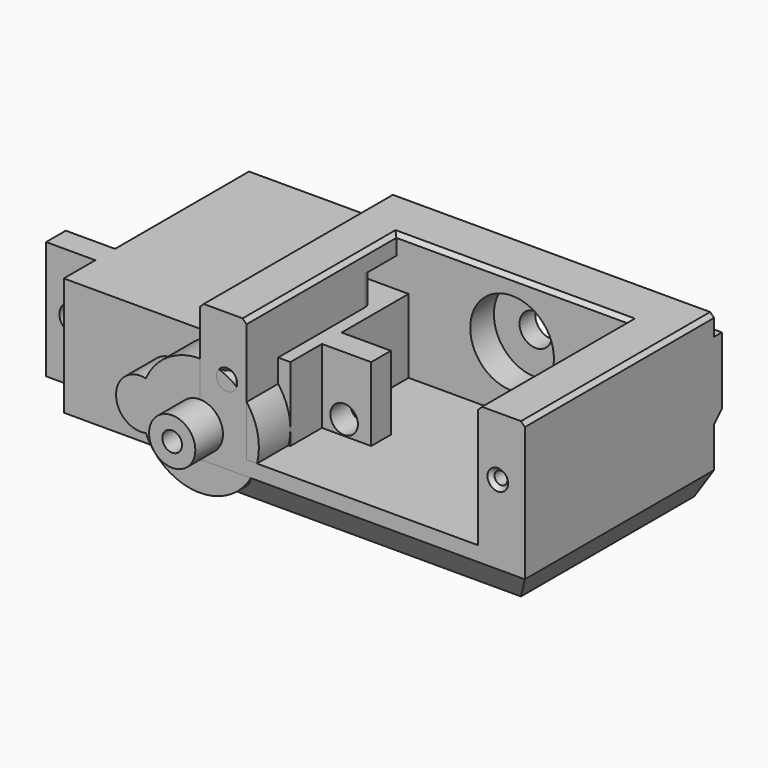
from build123d import *

# Parameters (mm, degrees)
PAD_DEPTH        = 12
PAD001_DEPTH     = 4
SKETCH002_R      = 2.35
SKETCH002_R_2    = 1
PAD002_DEPTH     = 3.5
SKETCH003_R      = 1.4
POCKET_DEPTH     = 19.501
SKETCH004_W      = 33
SKETCH004_H      = 24
PAD003_DEPTH     = 17
SKETCH005_W      = 23.5
SKETCH005_H      = 19
POCKET001_DEPTH  = 12.5
SKETCH006_W      = 3
SKETCH006_H      = 8.5
POCKET002_DEPTH  = 5
SKETCH007_R      = 0.65
POCKET003_DEPTH  = 10
SKETCH008_W      = 11.5
SKETCH008_H      = 7.8
PAD004_DEPTH     = 1
CHAMFER_SIZE     = 0.99
SKETCH009_R      = 1.65
POCKET004_DEPTH  = 5
SKETCH010_R      = 4.25
POCKET005_DEPTH  = 3
CHAMFER001_SIZE2 = 3
CHAMFER001_SIZE  = 2
CHAMFER002_SIZE2 = 2
CHAMFER002_SIZE  = 3
CHAMFER003_SIZE2 = 3
CHAMFER003_SIZE  = 2
CHAMFER004_SIZE  = 0.4
CHAMFER005_SIZE  = 0.4
FILLET_R         = 1


with BuildPart() as obj1:
    # Sketch → Pad (new body)
    with BuildSketch(Plane.XY):
        Polygon((-22, 10.5), (-17, 10.5), (-17, 27.5), (6, 27.5), (6, 10.5), (11, 10.5), (11, 8), (6, 8), (6, 4), (-17, 4), (-17, 8), (-22, 8), align=None)
    extrude(amount=PAD_DEPTH)

    # Sketch001 (on Face9 of Pad) → Pad001 (join)
    with BuildSketch(Plane.XZ.offset(-4)):
        with BuildLine():
            ThreePointArc((-5.479167, 3.554855), (6, 6), (-5.479167, 8.445145))
            ThreePointArc((-5.479167, 8.445145), (-8.5, 6), (-5.479167, 3.554855))
        make_face()
    extrude(amount=PAD001_DEPTH)

    # Sketch002 (on Face19 of Pad001) → Pad002 (join)
    with BuildSketch(Plane.XZ):
        with Locations((0, 6)):
            Circle(SKETCH002_R)
        with Locations((0, 6)):
            Circle(SKETCH002_R_2, mode=Mode.SUBTRACT)
    extrude(amount=PAD002_DEPTH)

    # Sketch003 (on Face6 of Pad002) → Pocket (cut, through all)
    with BuildSketch(Plane.XZ.offset(-8)):
        with Locations((-19.25, 6)):
            Circle(SKETCH003_R)
        with Locations((8.25, 6)):
            Circle(SKETCH003_R)
    extrude(amount=-POCKET_DEPTH, mode=Mode.SUBTRACT)


with BuildPart() as body001:
    # Sketch004 → Pad003 (new body)
    with BuildSketch(Plane.XY):
        with Locations((16.5, 12)):
            Rectangle(SKETCH004_W, SKETCH004_H)
    extrude(amount=PAD003_DEPTH)

    # Sketch005 (on Face6 of Pad003) → Pocket001 (cut)
    with BuildSketch(Plane.XY.offset(17)):
        with Locations((16.5, 9.5)):
            Rectangle(SKETCH005_W, SKETCH005_H)
    extrude(amount=-POCKET001_DEPTH, mode=Mode.SUBTRACT)

    # Sketch006 (on Face8 of Pocket001) → Pocket002 (cut)
    with BuildSketch(Plane(origin=(0, 0, 0), x_dir=(0, -1, 0), z_dir=(-1, 0, 0))):
        with Locations((-17.5, 10.75)):
            Rectangle(SKETCH006_W, SKETCH006_H)
    extrude(amount=-POCKET002_DEPTH, mode=Mode.SUBTRACT)

    # Sketch007 (on Face1 of Pocket002) → Pocket003 (cut)
    with BuildSketch(Plane.XZ):
        with Locations((2.75, 11)):
            Circle(SKETCH007_R)
        with Locations((30.25, 11)):
            Circle(SKETCH007_R)
    extrude(amount=-POCKET003_DEPTH, mode=Mode.SUBTRACT)

    # Sketch008 (on Face11 of Pocket003) → Pad004 (join)
    with BuildSketch(Plane(origin=(0, 24, 0), x_dir=(-1, 0, 0), z_dir=(0, 1, 0))):
        with Locations((-27.25, 11)):
            Rectangle(SKETCH008_W, SKETCH008_H)
        with Locations((-5.75, 11)):
            Rectangle(SKETCH008_W, SKETCH008_H)
    extrude(amount=PAD004_DEPTH)

    # Chamfer
    chamfer_edges = [body001.edges().sort_by_distance(p)[0] for p in [
        (27.25, 25, 7.1),
        (5.75, 25, 7.1),
    ]]
    chamfer(chamfer_edges, length=CHAMFER_SIZE)

    # Sketch009 (on Face7 of Chamfer) → Pocket004 (cut)
    with BuildSketch(Plane(origin=(0, 24, 0), x_dir=(-1, 0, 0), z_dir=(0, 1, 0))):
        with Locations((-16.5, 11)):
            Circle(SKETCH009_R)
    extrude(amount=-POCKET004_DEPTH, mode=Mode.SUBTRACT)

    # Sketch010 (on Face22 of Pocket004) → Pocket005 (cut)
    with BuildSketch(Plane.XZ.offset(-19)):
        with Locations((16.5, 11)):
            Circle(SKETCH010_R)
    extrude(amount=-POCKET005_DEPTH, mode=Mode.SUBTRACT)

    # Chamfer001
    chamfer001_edges = [body001.edges().sort_by_distance(p)[0] for p in [
        (16.5, 0, 0),
    ]]
    chamfer001_side = body001.faces().sort_by_distance((16.5, 12, 0))[0]
    chamfer(chamfer001_edges, length=CHAMFER001_SIZE, length2=CHAMFER001_SIZE2, reference=chamfer001_side)

    # Chamfer002
    chamfer002_edges = [body001.edges().sort_by_distance(p)[0] for p in [
        (0, 13, 0),
    ]]
    chamfer002_side = body001.faces().sort_by_distance((0, 11.720026, 8.408103))[0]
    chamfer(chamfer002_edges, length=CHAMFER002_SIZE, length2=CHAMFER002_SIZE2, reference=chamfer002_side)

    # Chamfer003
    chamfer003_edges = [body001.edges().sort_by_distance(p)[0] for p in [
        (33, 13, 0),
    ]]
    chamfer003_side = body001.faces().sort_by_distance((17.5, 13, 0))[0]
    chamfer(chamfer003_edges, length=CHAMFER003_SIZE, length2=CHAMFER003_SIZE2, reference=chamfer003_side)

    # Chamfer004
    chamfer004_edges = [body001.edges().sort_by_distance(p)[0] for p in [
        (0, 12, 17),
        (4.75, 9.5, 17),
        (16.5, 19, 17),
        (28.25, 9.5, 17),
        (33, 12, 17),
    ]]
    chamfer(chamfer004_edges, length=CHAMFER004_SIZE)

    # Chamfer005
    chamfer005_edges = [body001.edges().sort_by_distance(p)[0] for p in [
        (2.1, 0, 11),
        (29.6, 0, 11),
    ]]
    chamfer(chamfer005_edges, length=CHAMFER005_SIZE)

    # Fillet
    fillet_edges = [body001.edges().sort_by_distance(p)[0] for p in [
        (4.75, 16, 10.75),
        (0, 19, 10.75),
        (0, 16, 10.75),
    ]]
    fillet(fillet_edges, radius=FILLET_R)


solid = Compound([obj1.part, body001.part])
